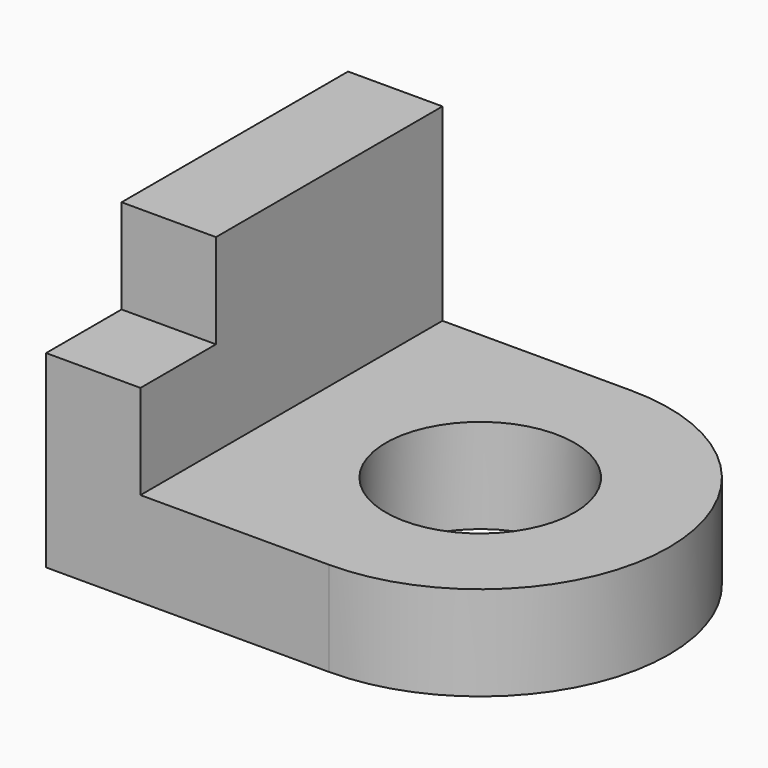
from build123d import *

# Parameters (mm, degrees)
SKETCH_R     = 10
PAD_DEPTH    = 10
SKETCH001_W  = 10
SKETCH001_H  = 40
PAD001_DEPTH = 20
SKETCH002_W  = 10
SKETCH002_H  = 10
POCKET_DEPTH = 10


with BuildPart() as part:
    # Sketch → Pad (new body)
    with BuildSketch(Plane.XY):
        with BuildLine():
            Line((-25, 20), (-25, -20))
            Line((-25, -20), (5.000016, -20))
            ThreePointArc((5.000016, -20), (25.000016, 8e-06), (5, 20))
            Line((5, 20), (-25, 20))
        make_face()
        with Locations((5.000016, 0)):
            Circle(SKETCH_R, mode=Mode.SUBTRACT)
    extrude(amount=PAD_DEPTH)

    # Sketch001 (on Face7 of Pad) → Pad001 (join)
    with BuildSketch(Plane.XY.offset(10)):
        with Locations((-20, 0)):
            Rectangle(SKETCH001_W, SKETCH001_H)
    extrude(amount=PAD001_DEPTH)

    # Sketch002 (on Face6 of Pad001) → Pocket (cut)
    with BuildSketch(Plane.XY.offset(30)):
        with Locations((-20, -15)):
            Rectangle(SKETCH002_W, SKETCH002_H)
    extrude(amount=-POCKET_DEPTH, mode=Mode.SUBTRACT)


solid = part.part
